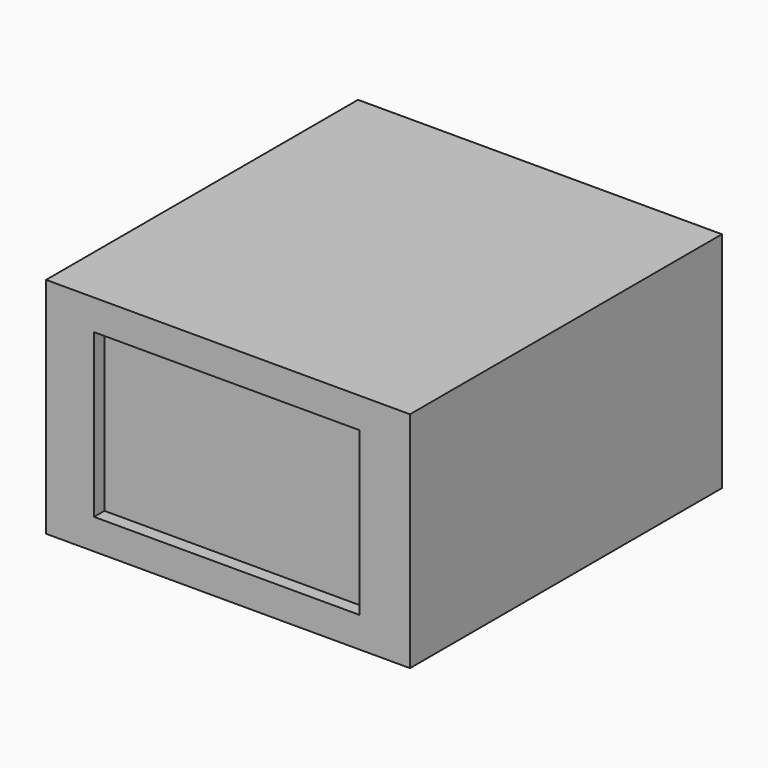
from build123d import *

# Parameters (mm, degrees)
SKETCH_W     = 140
SKETCH_H     = 150
PAD_DEPTH    = 86
SKETCH001_W  = 102.094734
SKETCH001_H  = 62.564154
POCKET_DEPTH = 5


with BuildPart() as part:
    # Sketch → Pad (new body)
    with BuildSketch(Plane.XY):
        with Locations((70, -75)):
            Rectangle(SKETCH_W, SKETCH_H)
    extrude(amount=PAD_DEPTH)

    # Sketch001 (on Face3 of Pad) → Pocket (cut)
    with BuildSketch(Plane.XZ.offset(150)):
        with Locations((69.496113, 43.012418)):
            Rectangle(SKETCH001_W, SKETCH001_H)
    extrude(amount=-POCKET_DEPTH, mode=Mode.SUBTRACT)


solid = part.part
